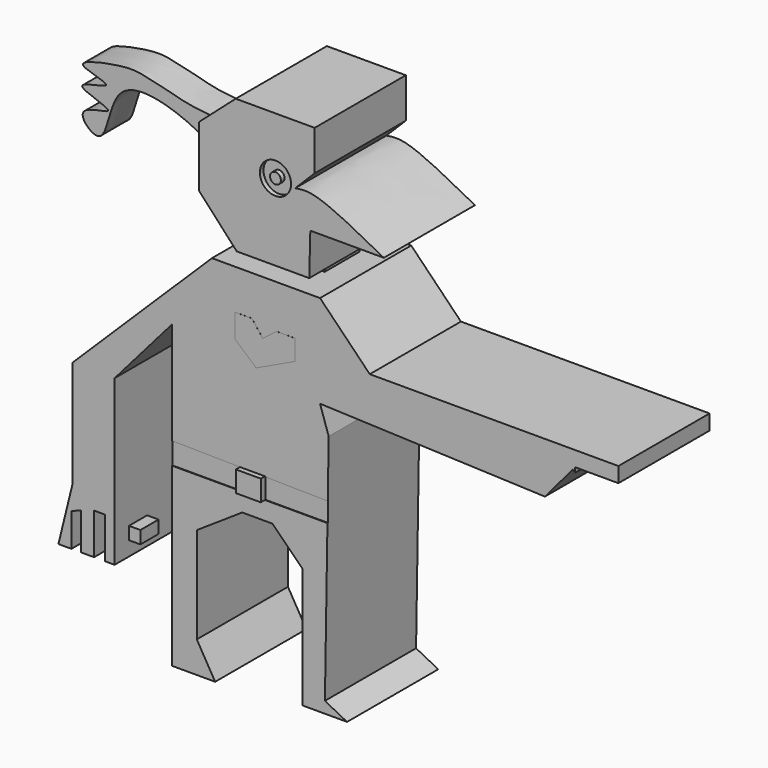
from build123d import *

# Parameters (mm, degrees)
F1_DEPTH  = 25.4
F2_W      = 63.3505880833
F2_H      = 33.755319193
F3_DEPTH  = 60.198
F4_W      = 9.928772226
F4_H      = 9.6227461472
F5_DEPTH  = 3.302
F7_DEPTH  = 25.4
F8_R      = 3.4791673205
F9_DEPTH  = 1.016
F10_R     = 1.2125624456
F11_DEPTH = 1.016
F14_W     = 49.3241790682
F14_H     = 19.1668868065
F15_DEPTH = 53.848
F16_W     = 5.0559043884
F16_H     = 2.8335377574
F17_DEPTH = 2.54
F19_DEPTH = 7.62
F21_DEPTH = 0.127
F23_DEPTH = 0.0127
F24_W     = 5.5532782829
F24_H     = 4.6575302699
F25_DEPTH = 1.27


with BuildPart() as f1:
    # F0 (on Front) → F1 (new body)
    with BuildSketch(Plane.XZ):
        Polygon((-27.4733137339, 6.7478311248), (-27.4733137339, -60.2484941483), (-17.8335532546, -60.2484941483), (-21.9304524362, -53.2596707344), (-21.9304524362, -31.8112075329), (-11.8087055162, -25.0633731484), (-5.0608739257, -25.0633731484), (1.6869582469, -31.8112075329), (1.6869582469, -53.5006634891), (6.6273350385, -56.0310985893), (7.4708135799, -3.8559036329), (5.5428617634, 1.9279518165), (55.6696094573, 0), (55.6696094573, 11.3267162815), (16.6285857558, 11.3267162815), (5.5428617634, 22.6534325629), (-6.5068367403, 22.6534325629), (-18.556535244, 22.6534325629), (-49.6447607875, -7.9528018832), (-49.6447607875, -31.8112075329), (-40.2459949255, -31.8112075329), (-40.2459949255, -7.9528018832), align=None)
        Polygon((-40.2459949255, -44.5838868618), (-40.2459949255, -31.8112075329), (-49.6447607875, -31.8112075329), (-52.7776814997, -44.5838868618), (-49.8857535422, -44.5838868618), (-49.8857535422, -37.113070488), (-47.716807574, -36.3900922239), (-47.716807574, -44.5838868618), (-44.8248796165, -44.5838868618), (-44.8248796165, -35.4261137545), (-42.4149408937, -35.4261137545), (-42.4149408937, -44.5838868618), align=None)
        Polygon((6.6273350385, -56.0310985893), (1.6869582469, -53.5006634891), (1.6869582469, -58.5615336895), (11.5677118301, -58.5615336895), align=None)
        Polygon((72.0572024584, 11.3267162815), (55.6696094573, 11.3267162815), (55.6696094573, 0), (62.4174438417, 0), (62.4174438417, 7.9528018832), (72.0572024584, 7.9528018832), align=None)
    extrude(amount=F1_DEPTH)

    # F4 (on face) → F5 (join)
    with BuildSketch(Plane.XY.offset(22.6534325629)):
        with Locations((-4.964386113, -12.3408376239)):
            Rectangle(F4_W, F4_H)
    extrude(amount=F5_DEPTH)

    # F6 (on Front) → F7 (join)
    with BuildSketch(Plane.XZ):
        with BuildLine():
            Line((-13.0136739463, 25.7863570005), (3.1329207122, 25.7863570005))
            Line((3.1329207122, 25.7863570005), (3.3739153296, 35.1851209998))
            Line((3.3739153296, 35.1851209998), (19.7615083307, 35.1851209998))
            add(Edge.make_bspline(
                [(0, 42.4149408937), (1.1725113045, 42.6073288832), (4.7511363451, 43.1945168057), (13.726714906, 38.4052310138), (19.7615083307, 35.1851209998)],
                knots=[0, 0, 0, 0, 0.327642961, 1, 1, 1, 1], degree=3))
            Line((0, 42.4149408937), (4.337891005, 46.75283283))
            Line((4.337891005, 46.75283283), (4.337891005, 55.6696094573))
            Line((4.337891005, 55.6696094573), (-13.2546685636, 55.6696094573))
            Line((-13.2546685636, 55.6696094573), (-21.4484632015, 48.4397895634))
            Line((-21.4484632015, 48.4397895634), (-21.4484632015, 34.9441282451))
            Line((-21.4484632015, 34.9441282451), (-13.0136739463, 25.7863570005))
        make_face()
    extrude(amount=F7_DEPTH)

    # F8 (on face) → F9 (cut)
    with BuildSketch(Plane.XZ.offset(25.4)):
        with Locations((-4.394851625, 42.9403744638)):
            Circle(F8_R)
    extrude(amount=-F9_DEPTH, mode=Mode.SUBTRACT)

    # F10 (on face) → F11 (join)
    with BuildSketch(Plane.XZ.offset(24.384)):
        with Locations((-4.394851625, 42.9403744638)):
            Circle(F10_R)
    extrude(amount=F11_DEPTH)

    # F14 (on 3pt) → F15 (cut)
    with BuildSketch(Plane(origin=(32.3674244633, 0, -27.4632793494), x_dir=(0, -1, 0), z_dir=(-0.7625090179, 0, 0.6469775866))):
        with Locations((5.4602986202, 36.0483564436)):
            Rectangle(F14_W, F14_H)
    extrude(amount=-F15_DEPTH, mode=Mode.SUBTRACT)

    # F16 (on face) → F17 (join)
    with BuildSketch(Plane.YZ.offset(-40.2459949255)):
        with Locations((-18.8738964498, -39.9673804641)):
            Rectangle(F16_W, F16_H)
    extrude(amount=F17_DEPTH)

    # F18 (on Front) → F19 (join)
    with BuildSketch(Plane.XZ):
        with BuildLine():
            add(Edge.make_bspline(
                [(-9.880753234, 26.7503317446), (-12.6327666648, 28.6388381467), (-24.4302246193, 28.7938667963), (-28.4776048798, 38.3028998987), (-35.6029400326, 39.0776954493), (-38.6906999345, 39.3221799755), (-48.3358471347, 42.1403085957), (-53.088470358, 42.1600912509), (-66.178226071, 39.3535036348), (-51.556137907, 36.9593750009), (-67.0585377663, 35.5218552234), (-50.6488687706, 31.6930389216), (-65.0722167735, 31.5738293762), (-55.6042726437, 22.2916952186), (-56.2122088188, 43.2447737318), (-32.0101573077, 33.8839288581), (-27.6059617493, 27.4185690591), (-6.964096172, 21.6770608474), (-8.6294180365, 25.891631527), (-9.880753234, 26.7503317446)],
                knots=[0, 0, 0, 0, 0.0767312087, 0.1403337991, 0.1913237965, 0.2296744395, 0.2926043354, 0.346567081, 0.4030493962, 0.4517946895, 0.5011359368, 0.5539619927, 0.6046432713, 0.6508372651, 0.7217123854, 0.8118304578, 0.8806093556, 0.9651104675, 1, 1, 1, 1], degree=3))
        make_face()
    extrude(amount=F19_DEPTH)

    # F20 (on face) → F21 (cut)
    with BuildSketch(Plane.XZ.offset(25.4)):
        Polygon((-27.4733137339, -16.0636675346), (-27.4733137339, -20.9664758295), (7.1941993671, -20.9664758295), (7.2643808711, -16.6252466528), align=None)
    extrude(amount=-F21_DEPTH, mode=Mode.SUBTRACT)

    # F22 (on face) → F23 (join)
    with BuildSketch(Plane.XZ.offset(25.4)):
        Polygon((-13.3966451027, 8.4396230327), (-8.6757848039, 4.3378919363), (0, 8.4396230327), (0, 12.9599219326), (-4.1667783908, 12.9599219326), (-7.2298194282, 10.6037352234), (-9.6397604793, 13.736656867), (-13.3966451027, 13.736656867), (-13.3966451027, 10.6037352234), align=None)
    extrude(amount=F23_DEPTH)

    # F24 (on face) → F25 (join)
    with BuildSketch(Plane.XZ.offset(25.273)):
        with Locations((-9.5244702663, -18.6377106946)):
            Rectangle(F24_W, F24_H)
    extrude(amount=F25_DEPTH)


with BuildPart() as f1b:
    # F0 (on Front) → F1, piece 2 (new body)
    with BuildSketch(Plane.XZ):
        Polygon((-15.4236145318, 28.6782830954), (-6.5068367403, 28.6782830954), (2.6509340387, 28.6782830954), (9.8807541654, 35.1851209998), (9.8807541654, 45.7888580859), (2.4099394213, 51.5727140009), (-14.218644239, 51.5727140009), (-22.6534344256, 46.75283283), (-22.6534344256, 34.9441282451), align=None)
    extrude(amount=F1_DEPTH)

    # F2 (on Front) → F3 (cut)
    with BuildSketch(Plane.XZ):
        with Locations((-3.2710805535, 41.4929902181)):
            Rectangle(F2_W, F2_H)
    extrude(amount=F3_DEPTH, mode=Mode.SUBTRACT)


solid = f1.part
